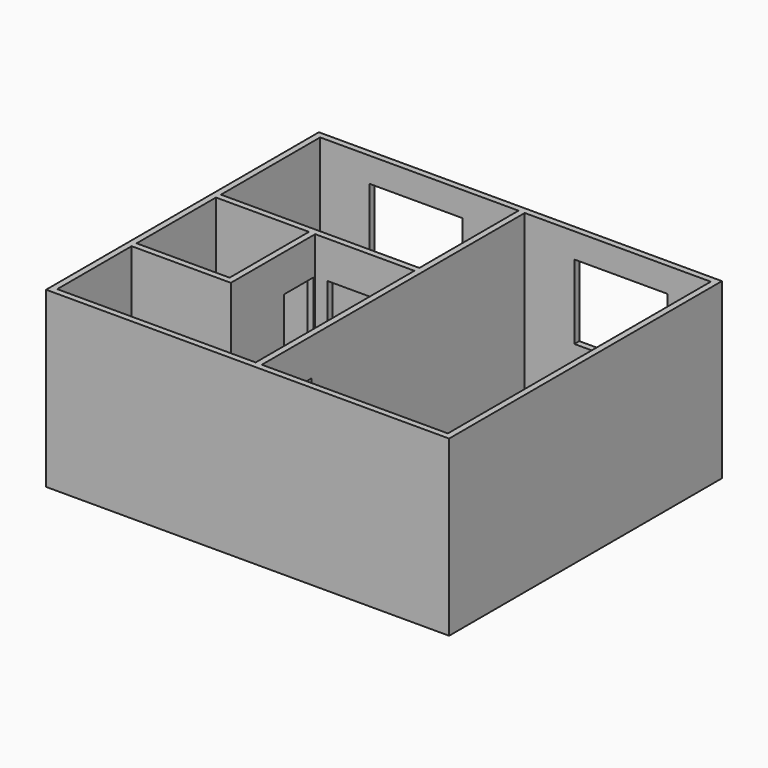
from build123d import *

# Parameters (mm, degrees)
F0_W      = 6500
F0_H      = 5500
F1_DEPTH  = 2800
F2_W      = 6300
F2_H      = 5300
F3_DEPTH  = 2700
F4_W      = 100
F4_H      = 2700
F5_DEPTH  = 5300
F6_W      = 800
F6_H      = 2100
F7_DEPTH  = 100
F8_W      = 100
F8_H      = 2700
F9_DEPTH  = 3200
F10_W     = 800
F10_H     = 2100
F11_DEPTH = 100
F12_W     = 100
F12_H     = 2700
F13_DEPTH = 1700
F14_W     = 100
F14_H     = 2700
F15_DEPTH = 1500
F16_W     = 1500
F16_H     = 1200
F17_DEPTH = 100
F18_W     = 1500
F18_H     = 1200
F19_DEPTH = 100
F20_W     = 600
F20_H     = 2100
F21_DEPTH = 100


with BuildPart() as f1:
    # F0 (on Top) → F1 (new body)
    with BuildSketch(Plane.XY):
        with Locations((-3250, 2750)):
            Rectangle(F0_W, F0_H)
    extrude(amount=F1_DEPTH)

    # F2 (on face) → F3 (cut)
    with BuildSketch(Plane.XY.offset(2800)):
        with Locations((-3250, 2750)):
            Rectangle(F2_W, F2_H)
    extrude(amount=-F3_DEPTH, mode=Mode.SUBTRACT)

    # F4 (on face) → F5 (join, through all)
    with BuildSketch(Plane.XZ.offset(-5400)):
        with Locations((-3150, 1450)):
            Rectangle(F4_W, F4_H)
    extrude(amount=F5_DEPTH)

    # F6 (on face) → F7 (cut, through all)
    with BuildSketch(Plane.YZ.offset(-3100)):
        with Locations((700, 1150)):
            Rectangle(F6_W, F6_H)
    extrude(amount=-F7_DEPTH, mode=Mode.SUBTRACT)

    # F8 (on face) → F9 (join, through all)
    with BuildSketch(Plane.YZ.offset(-6400)):
        with Locations((3350, 1450)):
            Rectangle(F8_W, F8_H)
    extrude(amount=F9_DEPTH)

    # F10 (on face) → F11 (cut, through all)
    with BuildSketch(Plane.XZ.offset(-3300)):
        with Locations((-4200, 1150)):
            Rectangle(F10_W, F10_H)
    extrude(amount=-F11_DEPTH, mode=Mode.SUBTRACT)

    # F12 (on face) → F13 (join)
    with BuildSketch(Plane.XZ.offset(-3300)):
        with Locations((-4850, 1450)):
            Rectangle(F12_W, F12_H)
    extrude(amount=F13_DEPTH)

    # F14 (on face) → F15 (join, through all)
    with BuildSketch(Plane(origin=(-4900, 0, 0), x_dir=(0, -1, 0), z_dir=(-1, 0, 0))):
        with Locations((-1650, 1450)):
            Rectangle(F14_W, F14_H)
    extrude(amount=F15_DEPTH)

    # F16 (on face) → F17 (cut, through all)
    with BuildSketch(Plane.XZ.offset(-5400)):
        with Locations((-1550, 1800)):
            Rectangle(F16_W, F16_H)
    extrude(amount=-F17_DEPTH, mode=Mode.SUBTRACT)

    # F18 (on face) → F19 (cut, through all)
    with BuildSketch(Plane.XZ.offset(-5400)):
        with Locations((-4850, 1800)):
            Rectangle(F18_W, F18_H)
    extrude(amount=-F19_DEPTH, mode=Mode.SUBTRACT)

    # F20 (on face) → F21 (cut, through all)
    with BuildSketch(Plane.YZ.offset(-4800)):
        with Locations((2970, 1150)):
            Rectangle(F20_W, F20_H)
    extrude(amount=-F21_DEPTH, mode=Mode.SUBTRACT)


solid = f1.part
